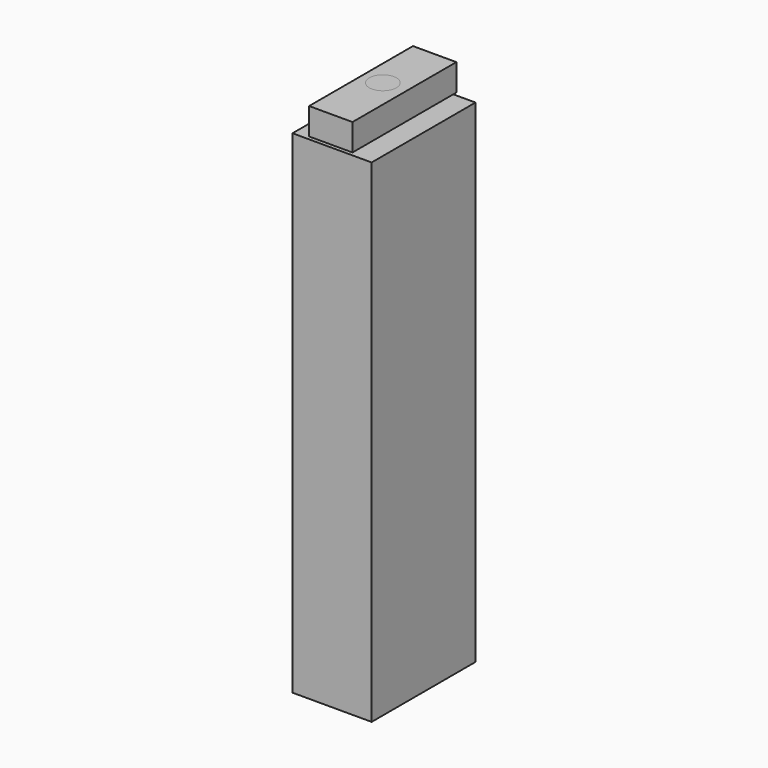
from build123d import *

# Parameters (mm, degrees)
F0_W     = 15.477753
F0_H     = 96.361499
F0_W_2   = 8.487801
F0_H_2   = 5.242463
F1_DEPTH = 25.4
F2_R     = 2.653724
F3_DEPTH = 25.4


with BuildPart() as f1:
    # F0 (on Front) → F1 (new body)
    with BuildSketch(Plane.XZ):
        with Locations((0.249642, -4.119077)):
            Rectangle(F0_W, F0_H)
        with Locations((-1e-06, 47.182185)):
            Rectangle(F0_W_2, F0_H_2)
    extrude(amount=F1_DEPTH)


with BuildPart() as f3:
    # F2 (on face) → F3 (new body)
    with BuildSketch(Plane.XY.offset(49.803417)):
        with Locations((-0.249641, -12.35724)):
            Circle(F2_R)
    extrude(amount=-F3_DEPTH)


solid = Compound([f1.part, f3.part])
